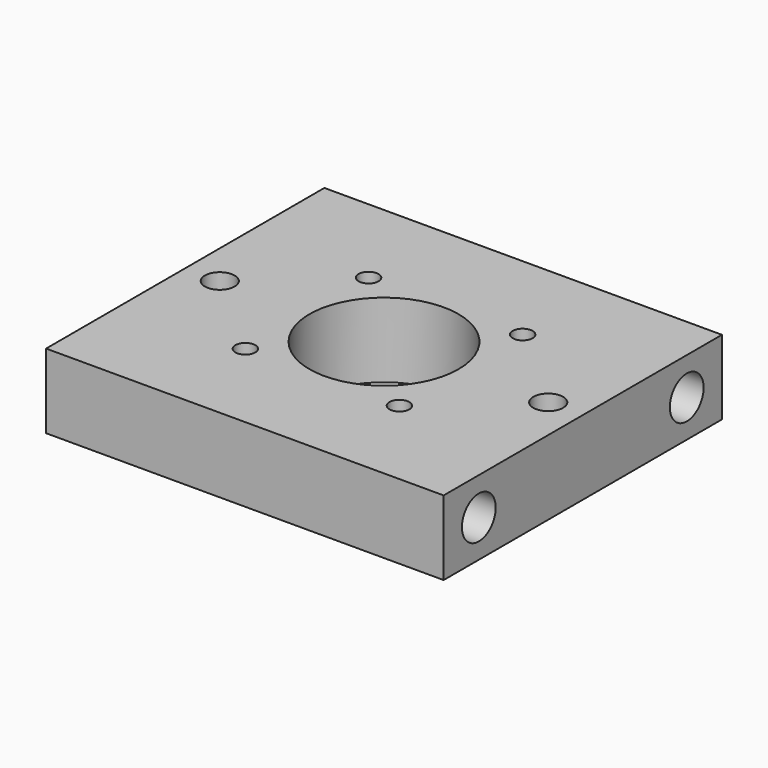
from build123d import *

# Parameters (mm, degrees)
F0_R     = 2
F0_R_2   = 3
F0_R_3   = 15
F1_DEPTH = 15
F2_R     = 4.25
F3_DEPTH = 80


with BuildPart() as f1:
    # F0 (on Top) → F1 (new body)
    with BuildSketch(Plane.XY):
        Polygon((40, -35), (40, -19.5), (40, 19.5), (40, 35), (-40, 35), (-40, 19.5), (-40, -19.5), (-40, -35), align=None)
        with Locations((-15.5, -15.5)):
            Circle(F0_R, mode=Mode.SUBTRACT)
        with Locations((15.5, -15.5)):
            Circle(F0_R, mode=Mode.SUBTRACT)
        with Locations((-33.045, 0)):
            Circle(F0_R_2, mode=Mode.SUBTRACT)
        with Locations((-15.5, 15.5)):
            Circle(F0_R, mode=Mode.SUBTRACT)
        Circle(F0_R_3, mode=Mode.SUBTRACT)
        with Locations((15.5, 15.5)):
            Circle(F0_R, mode=Mode.SUBTRACT)
        with Locations((33.045, 0)):
            Circle(F0_R_2, mode=Mode.SUBTRACT)
    extrude(amount=F1_DEPTH)

    # F2 (on face) → F3 (cut, through all)
    with BuildSketch(Plane.YZ.offset(40)):
        with Locations((-26.15, 7.5)):
            Circle(F2_R)
        with Locations((26.15, 7.5)):
            Circle(F2_R)
    extrude(amount=-F3_DEPTH, mode=Mode.SUBTRACT)


solid = f1.part
